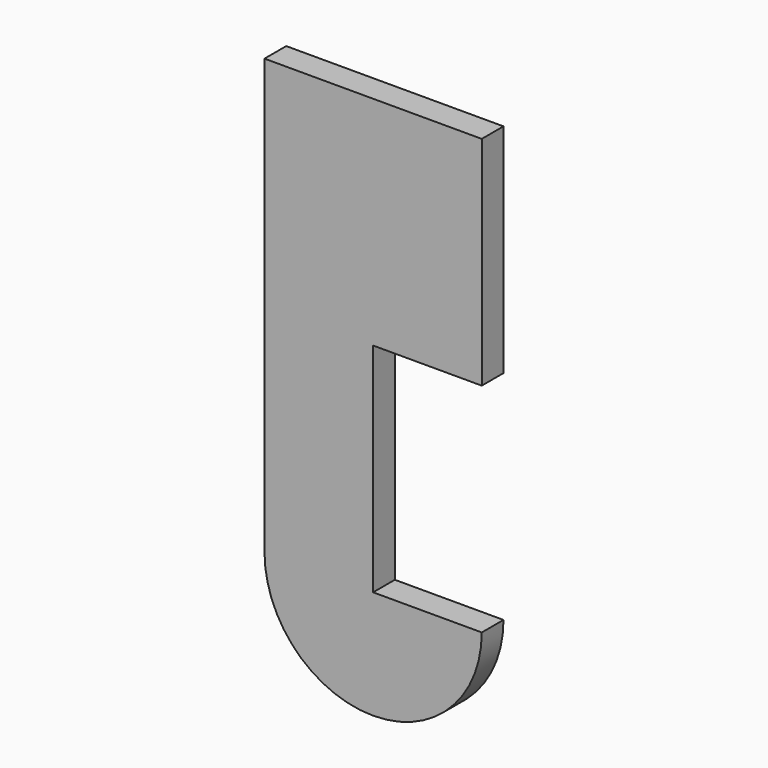
from build123d import *

# Parameters (mm, degrees)
F0_W     = 25.4
F0_H     = 25.4
F1_DEPTH = 1.5875
F2_W     = 12.7
F2_H     = 25.4
F3_DEPTH = 3.175
F5_DEPTH = 3.175


with BuildPart() as f1:
    # F0 (on Front) → F1 (new body, symmetric)
    with BuildSketch(Plane.XZ):
        with Locations((-0.326153, 40.037792)):
            Rectangle(F0_W, F0_H)
    extrude(amount=F1_DEPTH, both=True)

    # F2 (on face) → F3 (join)
    with BuildSketch(Plane.XZ.offset(1.5875)):
        with Locations((-6.676153, 14.637792)):
            Rectangle(F2_W, F2_H)
    extrude(amount=-F3_DEPTH)

    # F4 (on face) → F5 (join)
    with BuildSketch(Plane.XZ.offset(1.5875)):
        with BuildLine():
            Line((12.373847, 1.937792), (-13.026153, 1.937792))
            ThreePointArc((-13.026153, 1.937792), (-0.326153, -10.762208), (12.373847, 1.937792))
        make_face()
    extrude(amount=-F5_DEPTH)


solid = f1.part
